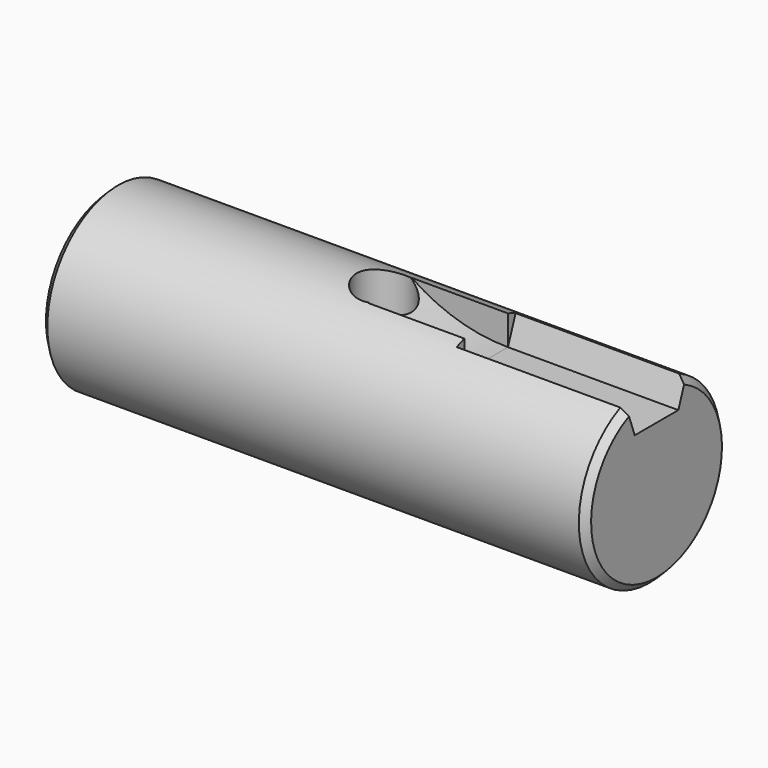
from build123d import *

# Parameters (mm, degrees)
F0_R     = 13
F1_DEPTH = 40
F2_R     = 4
F3_DEPTH = 13
F4_SIZE  = 1
F6_DEPTH = 4
F8_DEPTH = 25


with BuildPart() as f1:
    # F0 (on Right) → F1 (new body, symmetric)
    with BuildSketch(Plane.YZ):
        Circle(F0_R)
    extrude(amount=F1_DEPTH, both=True)

    # F2 (on Top) → F3 (cut, symmetric)
    with BuildSketch(Plane.XY):
        Circle(F2_R)
    extrude(amount=F3_DEPTH, both=True, mode=Mode.SUBTRACT)

    # F4
    f4_edges = [f1.edges().sort_by_distance(p)[0] for p in [
        (-40, -13, 0),
        (40, -13, 0),
    ]]
    chamfer(f4_edges, length=F4_SIZE)

    # F5 (on Front) → F6 (cut, symmetric)
    with BuildSketch(Plane.XZ):
        with BuildLine():
            Line((39, 13), (0, 13))
            ThreePointArc((0, 13), (7.0943058496, 9.2829175487), (15, 8))
            Line((15, 8), (40, 8))
            Line((40, 8), (40, 12))
            Line((40, 12), (39, 13))
        make_face()
    extrude(amount=F6_DEPTH, both=True, mode=Mode.SUBTRACT)

    # F7 (on face) → F8 (cut)
    with BuildSketch(Plane.YZ.offset(40)):
        with BuildLine():
            ThreePointArc((5.3934227849, 11.8283976372), (4.7044921415, 12.1189006799), (4, 12.3693168769))
            Line((4, 12.3693168769), (4, 8))
            Line((4, 8), (5.3934227849, 11.8283976372))
        make_face()
        with BuildLine():
            Line((-5.3934227849, 11.8283976372), (-4, 8))
            Line((-4, 8), (-4, 12.3693168769))
            ThreePointArc((-4, 12.3693168769), (-4.7044921415, 12.1189006799), (-5.3934227849, 11.8283976372))
        make_face()
    extrude(amount=-F8_DEPTH, mode=Mode.SUBTRACT)


solid = f1.part
